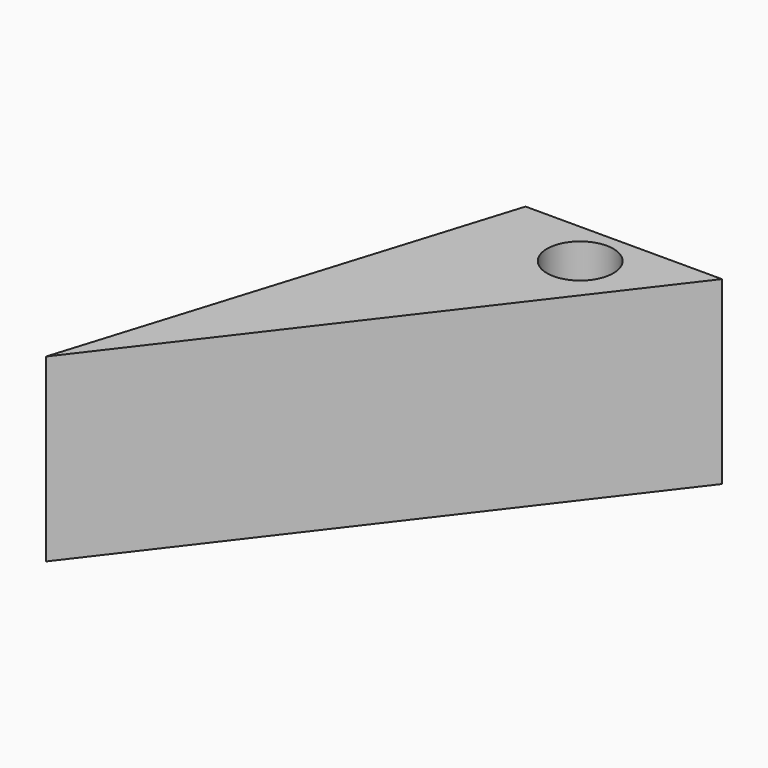
from build123d import *

# Parameters (mm, degrees)
F1_DEPTH = 17.272
F3_D     = 6.35


with BuildPart() as f1:
    # F0 (on Top) → F1 (new body)
    with BuildSketch(Plane.XY):
        Polygon((-121.429041, 0), (-134.250343, -41.347697), (-102.629565, 0), align=None)
    extrude(amount=-F1_DEPTH)

    # F3 (through all)
    with Locations(Plane.XY):
        with Locations((-112.734027, -4.330873)):
            Hole(F3_D / 2)


solid = f1.part
